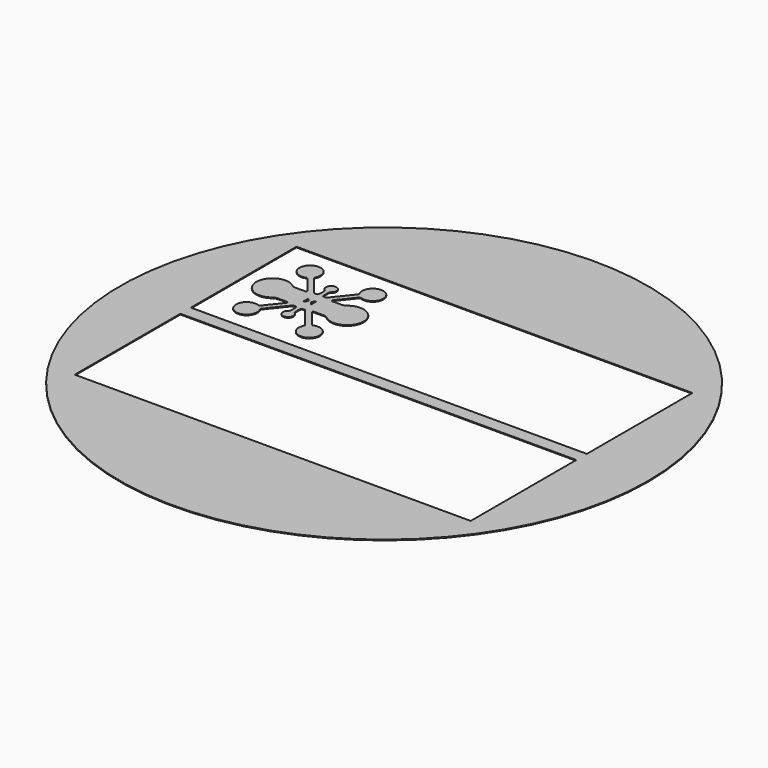
from build123d import *

# Parameters (mm, degrees)
F0_R     = 50
F0_W     = 75
F0_H     = 25
F1_DEPTH = 0.15


with BuildPart() as f1:
    # F0 (on Top) → F1 (new body)
    with BuildSketch(Plane.XY):
        with Locations((0, 13.864864)):
            Circle(F0_R)
        Rectangle(F0_W, F0_H, mode=Mode.SUBTRACT)
        with Locations((0, 27.5)):
            Rectangle(F0_W, F0_H, mode=Mode.SUBTRACT)
        with BuildLine():
            ThreePointArc((-19.730074, 33.13012), (-17.74507, 36.520228), (-20.842872, 34.104302))
            ThreePointArc((-20.842872, 34.104302), (-20.786492, 34.001656), (-20.724202, 33.902485))
            ThreePointArc((-20.724202, 33.902485), (-20.392678, 33.521916), (-19.976437, 33.23646))
            ThreePointArc((-19.976437, 33.23646), (-19.855041, 33.179154), (-19.730074, 33.13012))
        make_face()
        with BuildLine():
            ThreePointArc((-19.900965, 25.102336), (-14.772092, 27.489052), (-19.895844, 29.886743))
            ThreePointArc((-19.895844, 29.886743), (-19.991897, 29.803022), (-20.084453, 29.71545))
            ThreePointArc((-20.084453, 29.71545), (-20.130847, 29.646829), (-20.147154, 29.565618))
            Line((-20.147154, 29.565618), (-20.147154, 25.419169))
            ThreePointArc((-20.147154, 25.419169), (-20.130847, 25.337957), (-20.084453, 25.269336))
            ThreePointArc((-20.084453, 25.269336), (-19.994369, 25.184012), (-19.900965, 25.102336))
        make_face()
        with BuildLine():
            ThreePointArc((-19.747364, 21.863667), (-20.392678, 21.478084), (-20.850062, 20.881508))
            ThreePointArc((-20.850062, 20.881508), (-19.523305, 18.038422), (-17.06245, 19.9846))
            ThreePointArc((-17.06245, 19.9846), (-17.915678, 21.623171), (-19.747364, 21.863667))
        make_face()
        with BuildLine():
            ThreePointArc((-29.914627, 29.70432), (-30.000846, 29.783725), (-30.090035, 29.859779))
            ThreePointArc((-30.090035, 29.859779), (-35.104621, 27.494006), (-30.100424, 25.106337))
            ThreePointArc((-30.100424, 25.106337), (-30.00587, 25.186432), (-29.914627, 25.270279))
            ThreePointArc((-29.914627, 25.270279), (-29.86661, 25.339634), (-29.849699, 25.422276))
            Line((-29.849699, 25.422276), (-29.849699, 29.552324))
            ThreePointArc((-29.849699, 29.552324), (-29.86661, 29.634966), (-29.914627, 29.70432))
        make_face()
        with BuildLine():
            ThreePointArc((-29.151426, 34.115534), (-32.261302, 36.514626), (-30.265805, 33.131585))
            ThreePointArc((-30.265805, 33.131585), (-30.142952, 33.180021), (-30.023563, 33.23646))
            ThreePointArc((-30.023563, 33.23646), (-29.517746, 33.606799), (-29.151426, 34.115534))
        make_face()
        with BuildLine():
            ThreePointArc((-27.15, 29.43851), (-27.222221, 29.746727), (-27.423848, 29.990777))
            ThreePointArc((-27.423848, 29.990777), (-27.43109, 29.783881), (-27.588044, 29.648885))
            Line((-27.588044, 29.648885), (-29.502973, 29.648885))
            ThreePointArc((-29.502973, 29.648885), (-29.809674, 29.717671), (-30.090035, 29.859779))
            ThreePointArc((-30.090035, 29.859779), (-30.000846, 29.783725), (-29.914627, 29.70432))
            ThreePointArc((-29.914627, 29.70432), (-29.86661, 29.634966), (-29.849699, 29.552324))
            Line((-29.849699, 29.552324), (-29.849699, 25.422276))
            ThreePointArc((-29.849699, 25.422276), (-29.86661, 25.339634), (-29.914627, 25.270279))
            ThreePointArc((-29.914627, 25.270279), (-30.00587, 25.186432), (-30.100424, 25.106337))
            ThreePointArc((-30.100424, 25.106337), (-29.816251, 25.260053), (-29.502846, 25.338542))
            Line((-29.502846, 25.338542), (-27.85, 25.351115))
            Line((-27.85, 25.351115), (-27.588044, 25.351115))
            ThreePointArc((-27.588044, 25.351115), (-27.398406, 25.231816), (-27.423848, 25.009223))
            ThreePointArc((-27.423848, 25.009223), (-27.257124, 25.27058), (-27.15, 25.56149))
            Line((-27.15, 25.56149), (-27.15, 29.43851))
        make_face()
        with BuildLine():
            Line((-29.863001, 33.036003), (-27.423848, 29.990777))
            ThreePointArc((-27.423848, 29.990777), (-27.222221, 29.746727), (-27.15, 29.43851))
            Line((-27.15, 29.43851), (-27.15, 25.56149))
            ThreePointArc((-27.15, 25.56149), (-27.257124, 25.27058), (-27.423848, 25.009223))
            Line((-27.423848, 25.009223), (-29.867273, 21.958664))
            ThreePointArc((-29.867273, 21.958664), (-30.046268, 21.855647), (-30.252636, 21.863667))
            ThreePointArc((-30.252636, 21.863667), (-29.607322, 21.478084), (-29.149938, 20.881508))
            ThreePointArc((-29.149938, 20.881508), (-29.188531, 21.091056), (-29.119508, 21.29264))
            Line((-29.119508, 21.29264), (-26.213163, 24.921143))
            ThreePointArc((-26.213163, 24.921143), (-26.140041, 24.979264), (-26.048966, 25))
            Line((-26.048966, 25), (-25.960375, 25))
            ThreePointArc((-25.960375, 25), (-25.811617, 25.061617), (-25.75, 25.210375))
            Line((-25.75, 25.210375), (-25.75, 26.987622))
            Line((-25.75, 26.987622), (-25.75, 28.012378))
            Line((-25.75, 28.012378), (-25.75, 29.789625))
            ThreePointArc((-25.75, 29.789625), (-25.811617, 29.938383), (-25.960375, 30))
            Line((-25.960375, 30), (-26.048966, 30))
            ThreePointArc((-26.048966, 30), (-26.140041, 30.020736), (-26.213163, 30.078857))
            Line((-26.213163, 30.078857), (-29.103915, 33.687892))
            ThreePointArc((-29.103915, 33.687892), (-29.189698, 33.894822), (-29.151426, 34.115534))
            ThreePointArc((-29.151426, 34.115534), (-29.517746, 33.606799), (-30.023563, 33.23646))
            ThreePointArc((-30.023563, 33.23646), (-30.142952, 33.180021), (-30.265805, 33.131585))
            ThreePointArc((-30.265805, 33.131585), (-30.053194, 33.131033), (-29.863001, 33.036003))
        make_face()
        with BuildLine():
            Line((-25.75, 30), (-25.960375, 30))
            ThreePointArc((-25.960375, 30), (-25.811617, 29.938383), (-25.75, 29.789625))
            Line((-25.75, 29.789625), (-25.75, 28.012378))
            ThreePointArc((-25.75, 28.012378), (-25.715901, 28.059783), (-25.660114, 28.04253))
            Line((-25.660114, 28.04253), (-25.283807, 27.544723))
            ThreePointArc((-25.283807, 27.544723), (-25.272656, 27.523586), (-25.268806, 27.5))
            ThreePointArc((-25.268806, 27.5), (-25.272656, 27.476414), (-25.283807, 27.455277))
            Line((-25.283807, 27.455277), (-25.660114, 26.95747))
            ThreePointArc((-25.660114, 26.95747), (-25.715901, 26.940217), (-25.75, 26.987622))
            Line((-25.75, 26.987622), (-25.75, 25.210375))
            ThreePointArc((-25.75, 25.210375), (-25.811617, 25.061617), (-25.960375, 25))
            Line((-25.960375, 25), (-25.75, 25))
            Line((-25.75, 25), (-25.7, 25))
            ThreePointArc((-25.7, 25), (-25.487868, 24.912132), (-25.4, 24.7))
            Line((-25.4, 24.7), (-25.4, 24.505414))
            Line((-25.4, 24.505414), (-25.4, 23.579877))
            ThreePointArc((-25.4, 23.579877), (-25.464698, 23.366661), (-25.614832, 23.20202))
            ThreePointArc((-25.614832, 23.20202), (-25, 21.413362), (-24.385168, 23.20202))
            ThreePointArc((-24.385168, 23.20202), (-24.535302, 23.366661), (-24.6, 23.579877))
            Line((-24.6, 23.579877), (-24.6, 24.7))
            ThreePointArc((-24.6, 24.7), (-24.512132, 24.912132), (-24.3, 25))
            Line((-24.3, 25), (-24.25, 25))
            Line((-24.25, 25), (-24.039625, 25))
            ThreePointArc((-24.039625, 25), (-24.188383, 25.061617), (-24.25, 25.210375))
            Line((-24.25, 25.210375), (-24.25, 26.813685))
            Line((-24.25, 26.813685), (-24.25, 26.987622))
            ThreePointArc((-24.25, 26.987622), (-24.284099, 26.940217), (-24.339886, 26.95747))
            Line((-24.339886, 26.95747), (-24.716193, 27.455277))
            ThreePointArc((-24.716193, 27.455277), (-24.727344, 27.476414), (-24.731194, 27.5))
            ThreePointArc((-24.731194, 27.5), (-24.727344, 27.523586), (-24.716193, 27.544723))
            Line((-24.716193, 27.544723), (-24.339886, 28.04253))
            ThreePointArc((-24.339886, 28.04253), (-24.284099, 28.059783), (-24.25, 28.012378))
            Line((-24.25, 28.012378), (-24.25, 28.186315))
            Line((-24.25, 28.186315), (-24.25, 29.789625))
            ThreePointArc((-24.25, 29.789625), (-24.188383, 29.938383), (-24.039625, 30))
            Line((-24.039625, 30), (-24.25, 30))
            Line((-24.25, 30), (-24.3, 30))
            ThreePointArc((-24.3, 30), (-24.512132, 30.087868), (-24.6, 30.3))
            Line((-24.6, 30.3), (-24.6, 31.418189))
            ThreePointArc((-24.6, 31.418189), (-24.532507, 31.636102), (-24.377815, 31.803768))
            ThreePointArc((-24.377815, 31.803768), (-24.998799, 33.586637), (-25.624063, 31.805264))
            ThreePointArc((-25.624063, 31.805264), (-25.46008, 31.642566), (-25.4, 31.419516))
            Line((-25.4, 31.419516), (-25.4, 30.494586))
            Line((-25.4, 30.494586), (-25.4, 30.3))
            ThreePointArc((-25.4, 30.3), (-25.487868, 30.087868), (-25.7, 30))
            Line((-25.7, 30), (-25.75, 30))
        make_face()
        with BuildLine():
            Line((-23.951034, 30), (-24.039625, 30))
            ThreePointArc((-24.039625, 30), (-24.188383, 29.938383), (-24.25, 29.789625))
            Line((-24.25, 29.789625), (-24.25, 28.186315))
            Line((-24.25, 28.186315), (-24.25, 28.012378))
            Line((-24.25, 28.012378), (-24.25, 27.5))
            Line((-24.25, 27.5), (-24.25, 26.987622))
            Line((-24.25, 26.987622), (-24.25, 26.813685))
            Line((-24.25, 26.813685), (-24.25, 25.210375))
            ThreePointArc((-24.25, 25.210375), (-24.188383, 25.061617), (-24.039625, 25))
            Line((-24.039625, 25), (-23.951034, 25))
            ThreePointArc((-23.951034, 25), (-23.859959, 24.979264), (-23.786837, 24.921143))
            Line((-23.786837, 24.921143), (-20.880492, 21.29264))
            ThreePointArc((-20.880492, 21.29264), (-20.811469, 21.091056), (-20.850062, 20.881508))
            ThreePointArc((-20.850062, 20.881508), (-20.392678, 21.478084), (-19.747364, 21.863667))
            ThreePointArc((-19.747364, 21.863667), (-19.953732, 21.855647), (-20.132727, 21.958664))
            Line((-20.132727, 21.958664), (-22.576152, 25.009223))
            ThreePointArc((-22.576152, 25.009223), (-22.742876, 25.27058), (-22.85, 25.56149))
            Line((-22.85, 25.56149), (-22.85, 29.43851))
            ThreePointArc((-22.85, 29.43851), (-22.777779, 29.746727), (-22.576152, 29.990777))
            Line((-22.576152, 29.990777), (-20.135555, 33.037805))
            ThreePointArc((-20.135555, 33.037805), (-19.943481, 33.130813), (-19.730074, 33.13012))
            ThreePointArc((-19.730074, 33.13012), (-19.855041, 33.179154), (-19.976437, 33.23646))
            ThreePointArc((-19.976437, 33.23646), (-20.392678, 33.521916), (-20.724202, 33.902485))
            ThreePointArc((-20.724202, 33.902485), (-20.786492, 34.001656), (-20.842872, 34.104302))
            ThreePointArc((-20.842872, 34.104302), (-20.802325, 33.900264), (-20.88042, 33.707451))
            Line((-20.88042, 33.707451), (-23.786837, 30.078857))
            ThreePointArc((-23.786837, 30.078857), (-23.859959, 30.020736), (-23.951034, 30))
        make_face()
        with BuildLine():
            ThreePointArc((-22.411956, 29.648885), (-22.601594, 29.768184), (-22.576152, 29.990777))
            ThreePointArc((-22.576152, 29.990777), (-22.777779, 29.746727), (-22.85, 29.43851))
            Line((-22.85, 29.43851), (-22.85, 25.56149))
            ThreePointArc((-22.85, 25.56149), (-22.742876, 25.27058), (-22.576152, 25.009223))
            ThreePointArc((-22.576152, 25.009223), (-22.601594, 25.231816), (-22.411956, 25.351115))
            Line((-22.411956, 25.351115), (-20.497154, 25.351115))
            ThreePointArc((-20.497154, 25.351115), (-20.18386, 25.263151), (-19.900965, 25.102336))
            ThreePointArc((-19.900965, 25.102336), (-19.994369, 25.184012), (-20.084453, 25.269336))
            ThreePointArc((-20.084453, 25.269336), (-20.130847, 25.337957), (-20.147154, 25.419169))
            Line((-20.147154, 25.419169), (-20.147154, 29.565618))
            ThreePointArc((-20.147154, 29.565618), (-20.130847, 29.646829), (-20.084453, 29.71545))
            ThreePointArc((-20.084453, 29.71545), (-19.991897, 29.803022), (-19.895844, 29.886743))
            ThreePointArc((-19.895844, 29.886743), (-20.179056, 29.736486), (-20.487459, 29.648885))
            Line((-20.487459, 29.648885), (-22.15, 29.648885))
            Line((-22.15, 29.648885), (-22.411956, 29.648885))
        make_face()
        with BuildLine():
            ThreePointArc((-29.149938, 20.881508), (-29.607322, 21.478084), (-30.252636, 21.863667))
            ThreePointArc((-30.252636, 21.863667), (-32.576121, 18.837828), (-28.93755, 19.9846))
            ThreePointArc((-28.93755, 19.9846), (-28.991371, 20.445456), (-29.149938, 20.881508))
        make_face()
    extrude(amount=F1_DEPTH)


solid = f1.part
